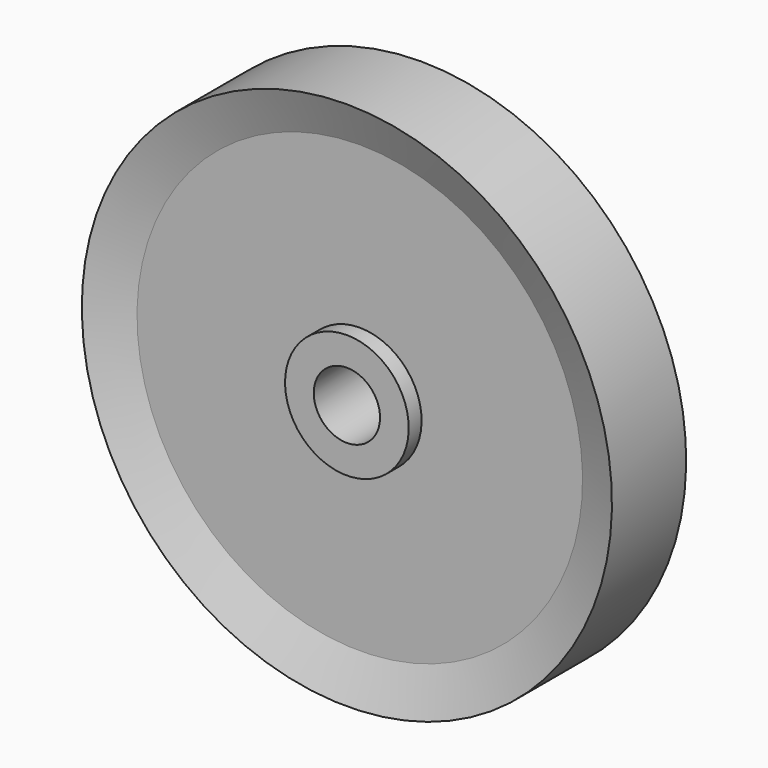
from build123d import *


with BuildPart() as part:
    # Sketch → Revolution (revolve)
    with BuildSketch(Plane.YZ):
        Polygon((7, 40), (-7, 40), (-4.57259, 33.620199), (-4.57259, 9.331906), (-7, 9.331906), (-7, 5), (7, 5), (7, 9.331906), (4.57259, 9.331906), (4.57259, 33.620199), align=None)
    revolve(axis=Axis((0, 0, 0), (0, 1, 0)))


solid = part.part
